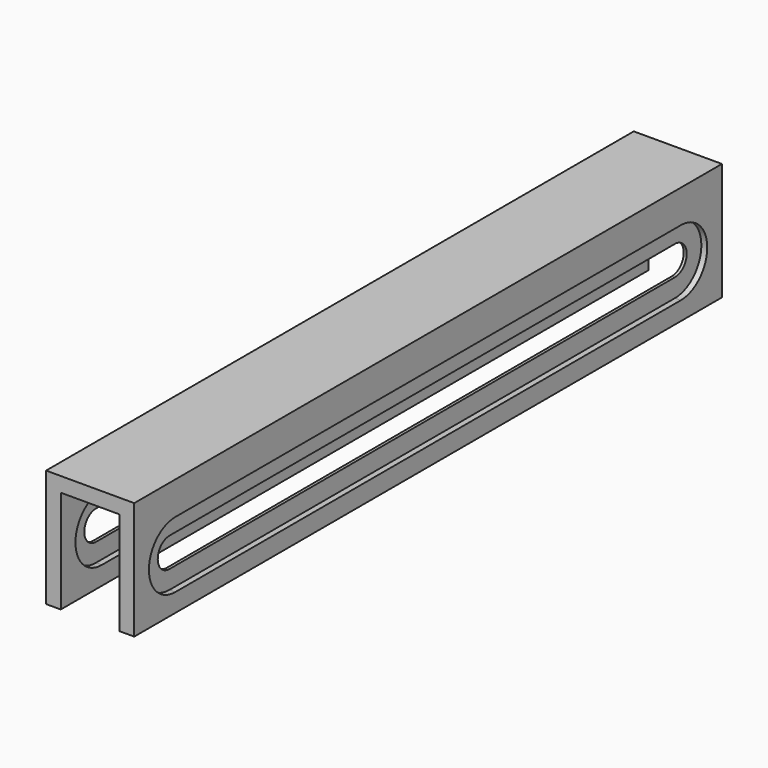
from build123d import *

# Parameters (mm, degrees)
F1_DEPTH      = 125
F1_DEPTH_BACK = 125
F6_DEPTH      = 5.001
F7_DEPTH      = 30.001
F8_DEPTH      = 2
F9_DEPTH      = 2
F10_DEPTH     = 2
F11_DEPTH     = 2


with BuildPart() as f1:
    # F0 (on Front) → F1 (new body, two sides)
    with BuildSketch(Plane.XZ) as f1_sk:
        Polygon((15, -20), (15, 20), (-15, 20), (-15, -20), (-10, -20), (-10, 15), (10, 15), (10, -20), align=None)
    extrude(amount=F1_DEPTH)
    extrude(f1_sk.sketch, amount=-F1_DEPTH_BACK)

    # F4 (on face) → F6 (cut, through all)
    with BuildSketch(Plane.YZ.offset(-10)):
        with BuildLine():
            Line((107.5, 2.5), (-107.5, 2.5))
            ThreePointArc((-107.5, 2.5), (-112.5, -2.5), (-107.5, -7.5))
            Line((-107.5, -7.5), (107.5, -7.5))
            ThreePointArc((107.5, -7.5), (112.5, -2.5), (107.5, 2.5))
        make_face()
    extrude(amount=-F6_DEPTH, mode=Mode.SUBTRACT)

    # F2 (on face) → F7 (cut, through all)
    with BuildSketch(Plane(origin=(-15, 0, 0), x_dir=(0, -1, 0), z_dir=(-1, 0, 0))):
        with BuildLine():
            Line((-107.5, -7.5), (107.5, -7.5))
            ThreePointArc((107.5, -7.5), (112.5, -2.5), (107.5, 2.5))
            Line((107.5, 2.5), (-107.5, 2.5))
            ThreePointArc((-107.5, 2.5), (-112.5, -2.5), (-107.5, -7.5))
        make_face()
    extrude(amount=-F7_DEPTH, mode=Mode.SUBTRACT)

    # F5 (on face) → F8 (cut)
    with BuildSketch(Plane(origin=(10, 0, 0), x_dir=(0, -1, 0), z_dir=(-1, 0, 0))):
        with BuildLine():
            Line((107.5, 8.75), (-107.5, 8.75))
            ThreePointArc((-107.5, 8.75), (-118.75, -2.5), (-107.5, -13.75))
            Line((-107.5, -13.75), (107.5, -13.75))
            ThreePointArc((107.5, -13.75), (118.75, -2.5), (107.5, 8.75))
        make_face()
        with BuildLine():
            ThreePointArc((-107.5, -7.5), (-112.5, -2.5), (-107.5, 2.5))
            Line((-107.5, 2.5), (107.5, 2.5))
            ThreePointArc((107.5, 2.5), (112.5, -2.5), (107.5, -7.5))
            Line((107.5, -7.5), (-107.5, -7.5))
        make_face(mode=Mode.SUBTRACT)
    extrude(amount=-F8_DEPTH, mode=Mode.SUBTRACT)

    # F4 (on face) → F9 (cut)
    with BuildSketch(Plane.YZ.offset(-10)):
        with BuildLine():
            Line((107.5, 8.75), (-107.5, 8.75))
            ThreePointArc((-107.5, 8.75), (-118.75, -2.5), (-107.5, -13.75))
            Line((-107.5, -13.75), (107.5, -13.75))
            ThreePointArc((107.5, -13.75), (118.75, -2.5), (107.5, 8.75))
        make_face()
        with BuildLine():
            ThreePointArc((-107.5, -7.5), (-112.5, -2.5), (-107.5, 2.5))
            Line((-107.5, 2.5), (107.5, 2.5))
            ThreePointArc((107.5, 2.5), (112.5, -2.5), (107.5, -7.5))
            Line((107.5, -7.5), (-107.5, -7.5))
        make_face(mode=Mode.SUBTRACT)
    extrude(amount=-F9_DEPTH, mode=Mode.SUBTRACT)

    # F3 (on face) → F10 (cut)
    with BuildSketch(Plane.YZ.offset(15)):
        with BuildLine():
            ThreePointArc((-107.5, 8.75), (-118.75, -2.5), (-107.5, -13.75))
            Line((-107.5, -13.75), (107.5, -13.75))
            ThreePointArc((107.5, -13.75), (118.75, -2.5), (107.5, 8.75))
            Line((107.5, 8.75), (-107.5, 8.75))
        make_face()
        with BuildLine():
            ThreePointArc((-107.5, -7.5), (-112.5, -2.5), (-107.5, 2.5))
            Line((-107.5, 2.5), (107.5, 2.5))
            ThreePointArc((107.5, 2.5), (112.5, -2.5), (107.5, -7.5))
            Line((107.5, -7.5), (-107.5, -7.5))
        make_face(mode=Mode.SUBTRACT)
    extrude(amount=-F10_DEPTH, mode=Mode.SUBTRACT)

    # F2 (on face) → F11 (cut)
    with BuildSketch(Plane(origin=(-15, 0, 0), x_dir=(0, -1, 0), z_dir=(-1, 0, 0))):
        with BuildLine():
            Line((-107.5, -13.75), (107.5, -13.75))
            ThreePointArc((107.5, -13.75), (118.75, -2.5), (107.5, 8.75))
            Line((107.5, 8.75), (-107.5, 8.75))
            ThreePointArc((-107.5, 8.75), (-118.75, -2.5), (-107.5, -13.75))
        make_face()
        with BuildLine():
            ThreePointArc((107.5, 2.5), (112.5, -2.5), (107.5, -7.5))
            Line((107.5, -7.5), (-107.5, -7.5))
            ThreePointArc((-107.5, -7.5), (-112.5, -2.5), (-107.5, 2.5))
            Line((-107.5, 2.5), (107.5, 2.5))
        make_face(mode=Mode.SUBTRACT)
    extrude(amount=-F11_DEPTH, mode=Mode.SUBTRACT)


solid = f1.part
